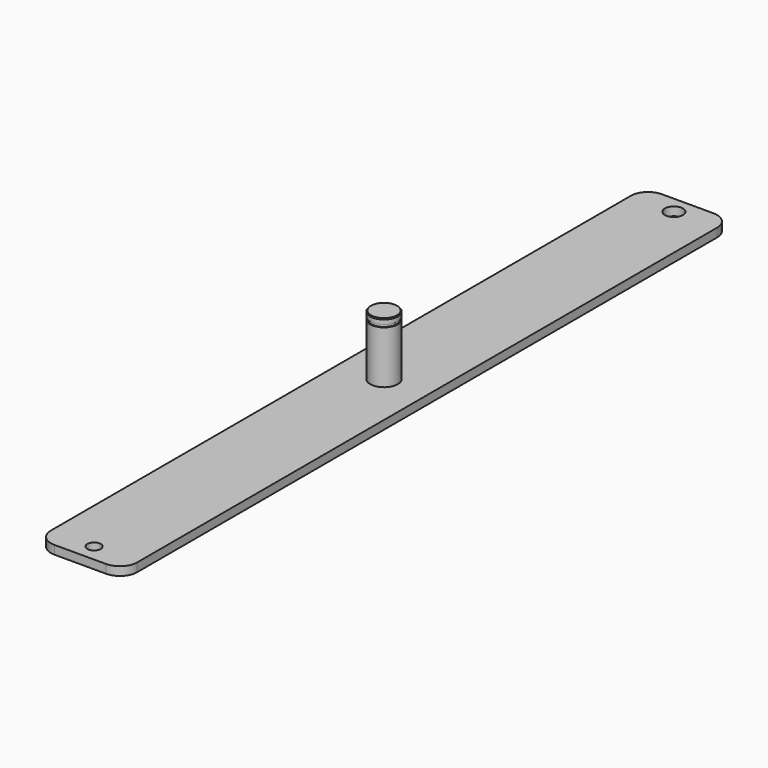
from build123d import *

# Parameters (mm, degrees)
F0_W     = 50
F0_H     = 5
F1_DEPTH = 440
F2_R     = 5.25
F2_R_2   = 3.9261217041
F3_DEPTH = 5.001
F4_R     = 8
F5_DEPTH = 35
F6_R     = 10
F8_R     = 8
F8_R_2   = 7.5
F9_DEPTH = 1.5
F10_SIZE = 0.5


with BuildPart() as f1:
    # F0 (on Front) → F1 (new body)
    with BuildSketch(Plane.XZ):
        Rectangle(F0_W, F0_H)
    extrude(amount=F1_DEPTH)

    # F2 (on face) → F3 (cut, through all)
    with BuildSketch(Plane.XY.offset(2.5)):
        with Locations((0, -10)):
            Circle(F2_R)
        with Locations((0, -430)):
            Circle(F2_R_2)
    extrude(amount=-F3_DEPTH, mode=Mode.SUBTRACT)

    # F4 (on face) → F5 (join)
    with BuildSketch(Plane.XY.offset(2.5)):
        with Locations((0, -220)):
            Circle(F4_R)
    extrude(amount=F5_DEPTH)

    # F6
    f6_edges = [f1.edges().sort_by_distance(p)[0] for p in [
        (-25, -440, 0),
        (25, -440, 0),
        (25, 0, 0),
        (-25, 0, 0),
    ]]
    fillet(f6_edges, radius=F6_R)

    # F8 (on offset) → F9 (cut)
    with BuildSketch(Plane.XY.offset(34.5)):
        with Locations((0, -220)):
            Circle(F8_R)
        with Locations((0, -220)):
            Circle(F8_R_2, mode=Mode.SUBTRACT)
    extrude(amount=-F9_DEPTH, mode=Mode.SUBTRACT)

    # F10
    f10_edges = [f1.edges().sort_by_distance(p)[0] for p in [
        (-8, -220, 37.5),
    ]]
    chamfer(f10_edges, length=F10_SIZE)


solid = f1.part
